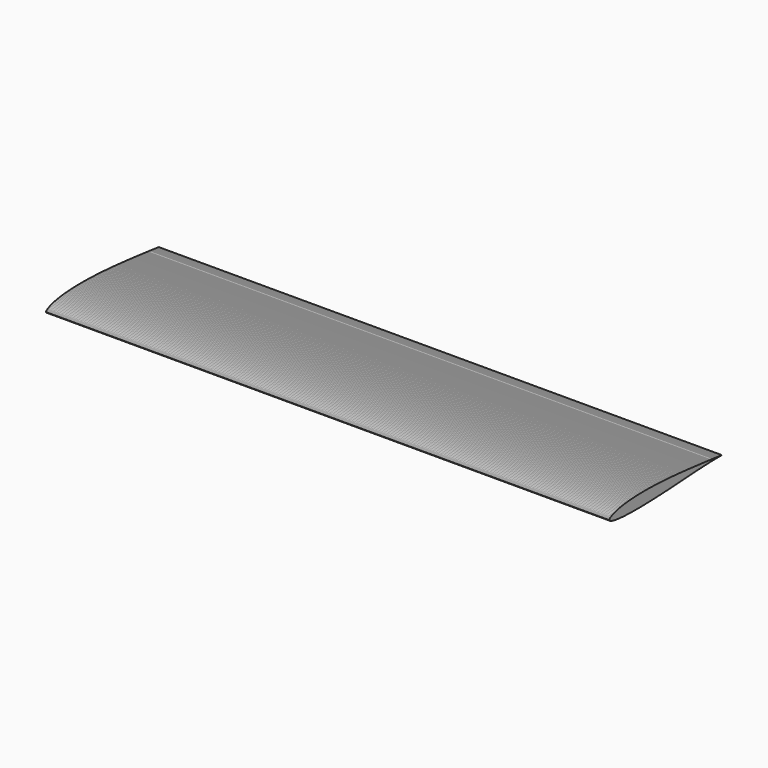
from build123d import *

# Parameters (mm, degrees)
F1_DEPTH = 1000


with BuildPart() as f1:
    # F0 (on Right) → F1 (new body)
    with BuildSketch(Plane.YZ):
        Polygon((123.525406, -3.093394), (125.034301, -3.09215), (123.828476, -2.952234), (121.493146, -2.657138), (118.877983, -2.318795), (116.19159, -1.988084), (113.502653, -1.665004), (110.808628, -1.347012), (108.096796, -1.031565), (105.379875, -0.718661), (102.657867, -0.408301), (99.935859, -0.097941), (97.211307, 0.207331), (94.489299, 0.515146), (91.764747, 0.820418), (89.040194, 1.123146), (86.315642, 1.42333), (83.59109, 1.723515), (80.863994, 2.023699), (78.139442, 2.318795), (75.412346, 2.613891), (72.690338, 2.903899), (69.963242, 3.193908), (67.236146, 3.481372), (64.506506, 3.766293), (61.77941, 4.048669), (59.04977, 4.328502), (56.325218, 4.608334), (53.598122, 4.883079), (50.868482, 5.152736), (48.138842, 5.419849), (45.409202, 5.684418), (42.679562, 5.946443), (39.949922, 6.205924), (37.220282, 6.457774), (34.490642, 6.707079), (31.758458, 6.953841), (29.028818, 7.19297), (26.299178, 7.427012), (23.569538, 7.655966), (20.837354, 7.874744), (18.107714, 8.088435), (15.37553, 8.294493), (12.64589, 8.49292), (9.913706, 8.686259), (7.184066, 8.866878), (4.454426, 9.044953), (1.722243, 9.215397), (-1.007397, 9.378209), (-3.739581, 9.533388), (-6.471765, 9.680937), (-9.198861, 9.823397), (-11.933589, 9.955681), (-14.663229, 10.080334), (-17.392869, 10.197355), (-20.122509, 10.306744), (-22.854693, 10.405957), (-25.581789, 10.497539), (-28.313973, 10.578945), (-31.041069, 10.647631), (-33.768165, 10.708685), (-36.497805, 10.75702), (-39.222357, 10.792635), (-41.949453, 10.820618), (-44.671461, 10.833338), (-47.398557, 10.833338), (-50.118022, 10.820618), (-52.842574, 10.795179), (-55.559494, 10.75702), (-58.278958, 10.701054), (-60.993335, 10.632367), (-63.707711, 10.54333), (-66.416999, 10.439029), (-69.128832, 10.31692), (-71.835576, 10.17446), (-74.534689, 10.014192), (-77.236346, 9.831029), (-79.930371, 9.62497), (-82.616764, 9.39856), (-85.300613, 9.144167), (-87.97683, 8.864334), (-90.645416, 8.55143), (-93.30637, 8.210543), (-95.95206, 7.834041), (-98.585031, 7.41938), (-101.202737, 6.96656), (-103.802637, 6.465405), (-106.374553, 5.91846), (-108.915942, 5.313004), (-111.41154, 4.643949), (-113.846084, 3.908753), (-116.189046, 3.109958), (-118.394636, 2.232301), (-120.368728, 1.296134), (-121.943422, 0.395582), (-123.052577, -0.365054), (-123.792861, -0.978142), (-124.291472, -1.474209), (-124.629815, -1.881238), (-124.856225, -2.280636), (-124.993598, -2.784335), (-125.034301, -3.094694), (-125.034301, -3.125222), (-124.965614, -3.298209), (110.974126, -3.103739), (113.634937, -3.056535), (116.303523, -3.023464), (118.923774, -3.018376), (121.485514, -3.048904), align=None)
        Polygon((110.910385, -3.10487), (110.974126, -3.103739), (-124.965614, -3.298209), (-124.800259, -3.64164), (-124.528058, -4.020686), (-124.126117, -4.381924), (-123.548644, -4.776234), (-122.714234, -5.23923), (-121.470251, -5.806527), (-119.717481, -6.44251), (-117.578033, -7.055598), (-115.217264, -7.599999), (-112.731841, -8.080803), (-110.172645, -8.500552), (-107.577833, -8.859246), (-104.947407, -9.17215), (-102.294085, -9.441807), (-99.625499, -9.678393), (-96.946738, -9.884451), (-94.257801, -10.062526), (-91.561232, -10.217706), (-88.854487, -10.352535), (-86.142655, -10.464468), (-83.430822, -10.561137), (-80.713902, -10.642543), (-77.994438, -10.703598), (-75.269886, -10.754476), (-72.54279, -10.792635), (-69.81315, -10.818075), (-67.086054, -10.833338), (-64.356414, -10.833338), (-61.62423, -10.82825), (-58.889502, -10.812987), (-56.154774, -10.787547), (-53.420046, -10.751932), (-50.682775, -10.711229), (-47.948047, -10.662895), (-45.210775, -10.606928), (-42.470959, -10.540786), (-39.733688, -10.4721), (-36.993872, -10.395782), (-34.254056, -10.314376), (-31.516784, -10.227882), (-28.774425, -10.131213), (-26.034609, -10.031999), (-23.294793, -9.930242), (-20.552434, -9.818309), (-17.812618, -9.706376), (-15.072802, -9.591899), (-12.330443, -9.474878), (-9.590627, -9.352769), (-6.848267, -9.225573), (-4.110996, -9.095832), (-1.37118, -8.963547), (1.37118, -8.828719), (4.110996, -8.693891), (6.848267, -8.553974), (9.585539, -8.40897), (12.322811, -8.263966), (15.060083, -8.113874), (17.797354, -7.958694), (20.534626, -7.80097), (23.271898, -7.640702), (26.00917, -7.475347), (28.748985, -7.304903), (31.488801, -7.137004), (34.228617, -6.964016), (36.97352, -6.791029), (39.71588, -6.615497), (42.460784, -6.44251), (45.205687, -6.269523), (47.950591, -6.096535), (50.695494, -5.923548), (53.442942, -5.753104), (56.187845, -5.582661), (58.930205, -5.417305), (61.675109, -5.251949), (64.417468, -5.091682), (67.157284, -4.931414), (69.899644, -4.776234), (72.642003, -4.626142), (75.381819, -4.478594), (78.121635, -4.336134), (80.858906, -4.196217), (83.601266, -4.063933), (86.338538, -3.931648), (89.073266, -3.809539), (91.810537, -3.695062), (94.542721, -3.583129), (97.277449, -3.478828), (100.007089, -3.384703), (102.736729, -3.300753), (105.466369, -3.224435), (108.190921, -3.160837), align=None)
    extrude(amount=F1_DEPTH)


solid = f1.part
